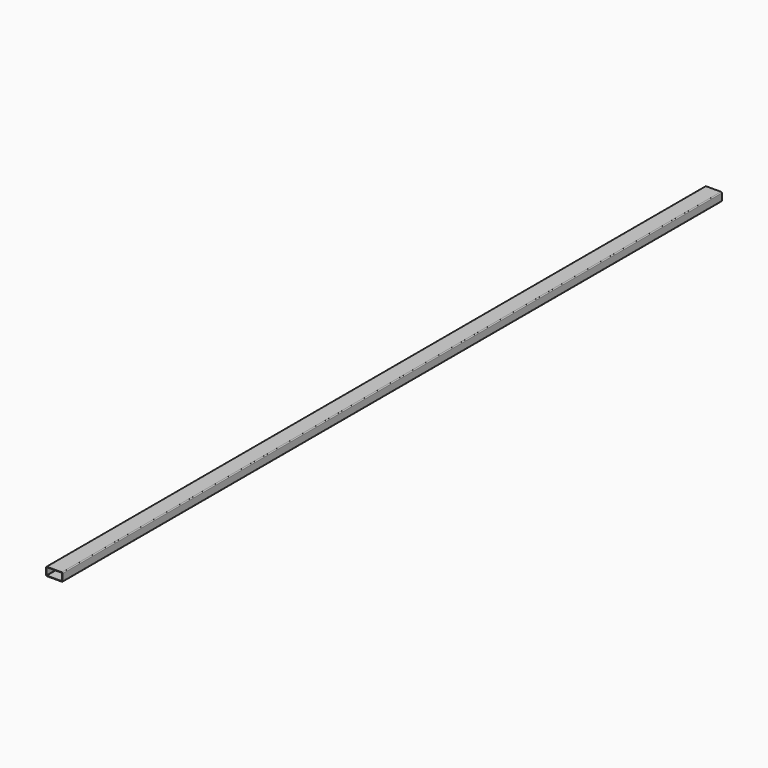
from build123d import *

# Parameters (mm, degrees)
F1_DEPTH = 1237.5


with BuildPart() as f1:
    # F0 (on Front) → F1 (new body, symmetric)
    with BuildSketch(Plane.XZ):
        with BuildLine():
            ThreePointArc((25, 10), (24.267766953, 11.767766953), (22.5, 12.5))
            Line((22.5, 12.5), (-22.5, 12.5))
            ThreePointArc((-22.5, 12.5), (-24.267766953, 11.767766953), (-25, 10))
            Line((-25, 10), (-25, -10))
            ThreePointArc((-25, -10), (-24.267766953, -11.767766953), (-22.5, -12.5))
            Line((-22.5, -12.5), (22.5, -12.5))
            ThreePointArc((22.5, -12.5), (24.267766953, -11.767766953), (25, -10))
            Line((25, -10), (25, 10))
        make_face()
        with BuildLine():
            ThreePointArc((22.5, 11), (23.2071067812, 10.7071067812), (23.5, 10))
            Line((23.5, 10), (23.5, -10))
            ThreePointArc((23.5, -10), (23.2071067812, -10.7071067812), (22.5, -11))
            Line((22.5, -11), (-22.5, -11))
            ThreePointArc((-22.5, -11), (-23.2071067812, -10.7071067812), (-23.5, -10))
            Line((-23.5, -10), (-23.5, 10))
            ThreePointArc((-23.5, 10), (-23.2071067812, 10.7071067812), (-22.5, 11))
            Line((-22.5, 11), (22.5, 11))
        make_face(mode=Mode.SUBTRACT)
    extrude(amount=F1_DEPTH, both=True)


solid = f1.part
